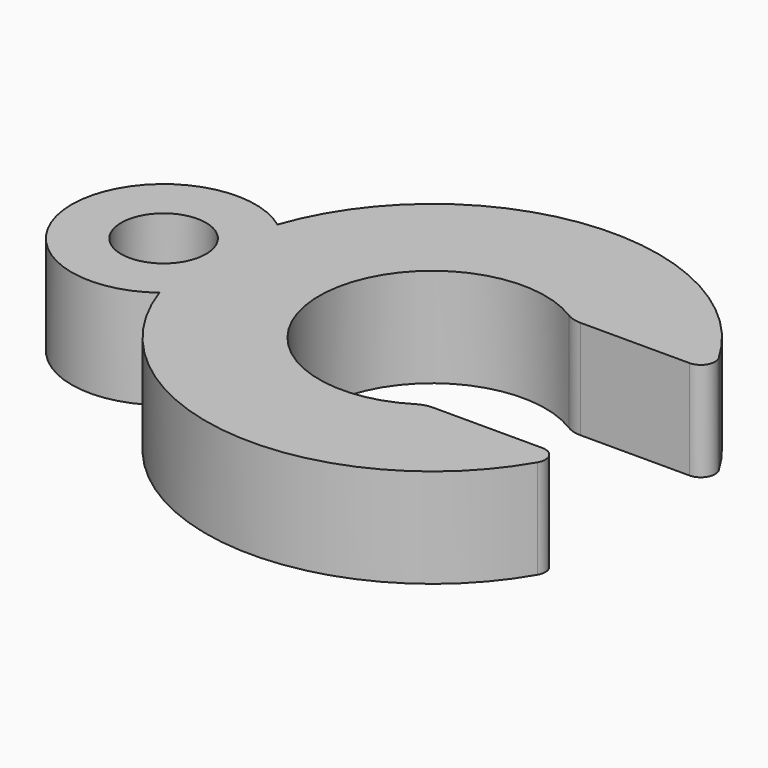
from build123d import *

# Parameters (mm, degrees)
F0_R     = 1.5
F1_DEPTH = 3.5


with BuildPart() as f1:
    # F0 (on Top) → F1 (new body)
    with BuildSketch(Plane.XY):
        with BuildLine():
            ThreePointArc((2.107131, -3.4), (-4, 0), (2.107131, 3.4))
            ThreePointArc((2.107131, 3.4), (2.360052, 3.288231), (2.633913, 3.25))
            Line((2.633913, 3.25), (6.495191, 3.25))
            ThreePointArc((6.495191, 3.25), (6.928203, 3.5), (6.928203, 4))
            ThreePointArc((6.928203, 4), (-0.764248, 7.963412), (-7.5625, 2.609328))
            ThreePointArc((-7.5625, 2.609328), (-12.75, 0), (-7.5625, -2.609328))
            ThreePointArc((-7.5625, -2.609328), (-0.764248, -7.963412), (6.928203, -4))
            ThreePointArc((6.928203, -4), (6.928203, -3.5), (6.495191, -3.25))
            Line((6.495191, -3.25), (2.633913, -3.25))
            ThreePointArc((2.633913, -3.25), (2.360052, -3.288231), (2.107131, -3.4))
        make_face()
        with Locations((-9.5, 0)):
            Circle(F0_R, mode=Mode.SUBTRACT)
    extrude(amount=F1_DEPTH)


solid = f1.part
